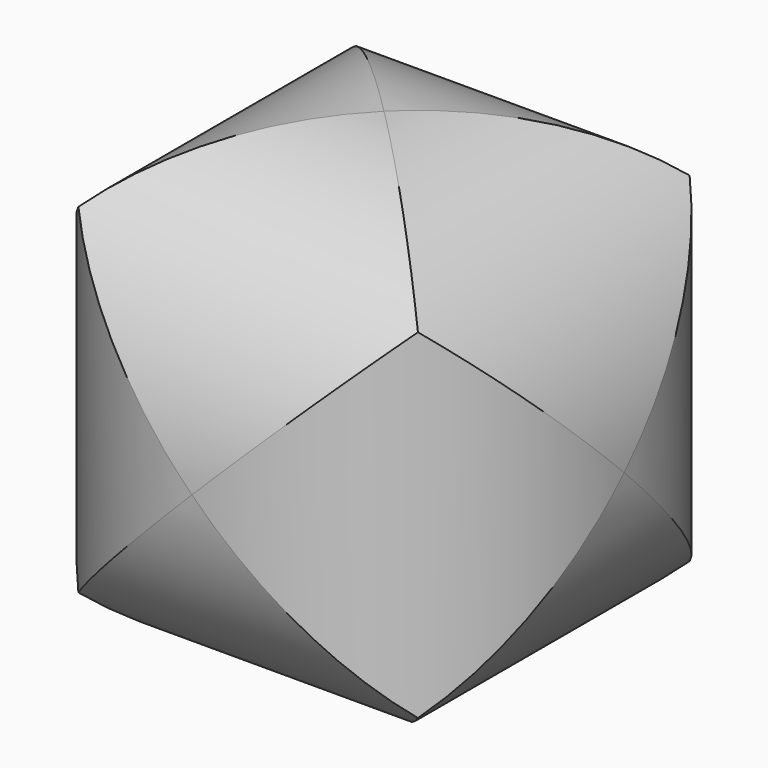
from build123d import *

# Parameters (mm, degrees)
F0_R     = 38.1
F1_DEPTH = 38.1
F2_R     = 38.1
F3_DEPTH = 44.704
F4_R     = 38.1
F5_DEPTH = 63.246


with BuildPart() as f1:
    # F0 (on Front) → F1 (new body, symmetric)
    with BuildSketch(Plane.XZ):
        Circle(F0_R)
    extrude(amount=F1_DEPTH, both=True)

    # F2 (on Top) → F3 (intersect, symmetric)
    with BuildSketch(Plane.XY):
        Circle(F2_R)
    extrude(amount=F3_DEPTH, both=True, mode=Mode.INTERSECT)

    # F4 (on Right) → F5 (intersect, symmetric)
    with BuildSketch(Plane.YZ):
        Circle(F4_R)
    extrude(amount=F5_DEPTH, both=True, mode=Mode.INTERSECT)


solid = f1.part
